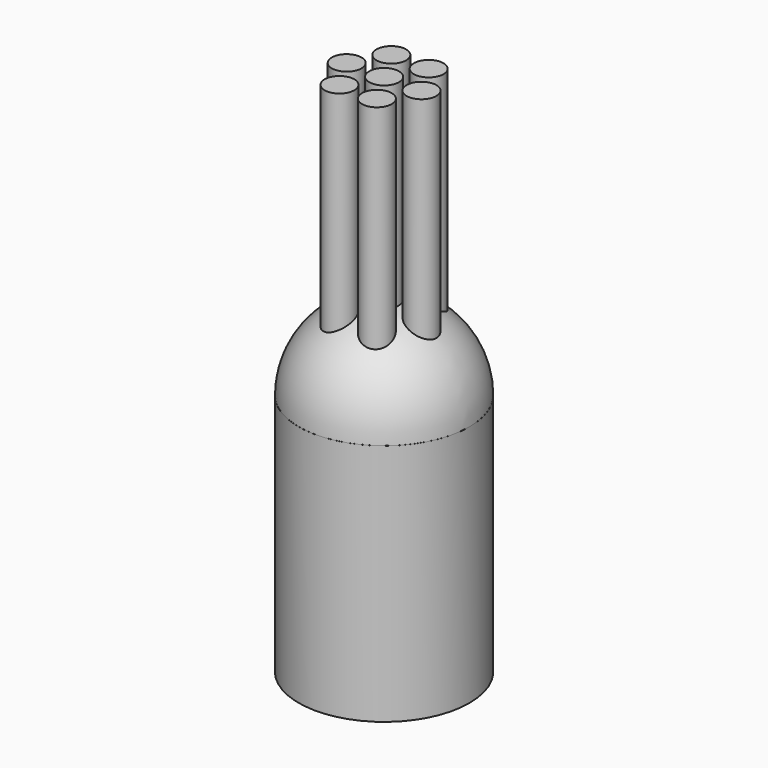
from build123d import *

# Parameters (mm, degrees)
CYLINDER065_R     = 0.79375
CYLINDER065_DEPTH = 28
ARRAY004_COUNT    = 6
CYLINDER066_R     = 0.79375
CYLINDER066_DEPTH = 28
CYLINDER064_R     = 4.564063
CYLINDER064_DEPTH = 13


with BuildPart() as array004:
    # Cylinder065 → Cylinder065 (new body)
    with BuildSketch(Plane(origin=(2, 0, 0), x_dir=(1, 0, 0), z_dir=(0, 0, 1))):
        Circle(CYLINDER065_R)
    extrude(amount=CYLINDER065_DEPTH)

    # Array004: Array004 ×6 about axis
    array004_axis = Axis((0, 0, 0), (0, 0, 1))


with BuildPart() as array004_1:
    add(array004.part)
    for i in range(1, ARRAY004_COUNT):
        add(array004.part.rotate(array004_axis, i * 360 / ARRAY004_COUNT))


with BuildPart() as obj1:
    # Cylinder066 → Cylinder066 (new body)
    with BuildSketch(Plane.XY):
        Circle(CYLINDER066_R)
    extrude(amount=CYLINDER066_DEPTH)

    # Fusion028: union Array004
    add(array004_1.part)


with BuildPart() as compression003:
    # Sphere003 → Sphere003 (revolve)
    with BuildSketch(Plane(origin=(0, 0, 13), x_dir=(1, 0, 0), z_dir=(0, -1, 0))):
        with BuildLine():
            ThreePointArc((0, -4.56), (4.56, 0), (0, 4.56))
            Line((0, 4.56), (0, -4.56))
        make_face()
    revolve(axis=Axis((0, 0, 13), (0, 0, 1)))


with BuildPart() as obj2:
    # Cylinder064 → Cylinder064 (new body)
    with BuildSketch(Plane.XY):
        Circle(CYLINDER064_R)
    extrude(amount=CYLINDER064_DEPTH)

    # Fusion029: union obj1, Compression003
    add(obj1.part)
    add(compression003.part)


with BuildPart() as obj2_1:
    # Fusion029 placement: moved
    add(obj2.part.moved(Location((156.75, 179.75, 0))))


solid = obj2_1.part
